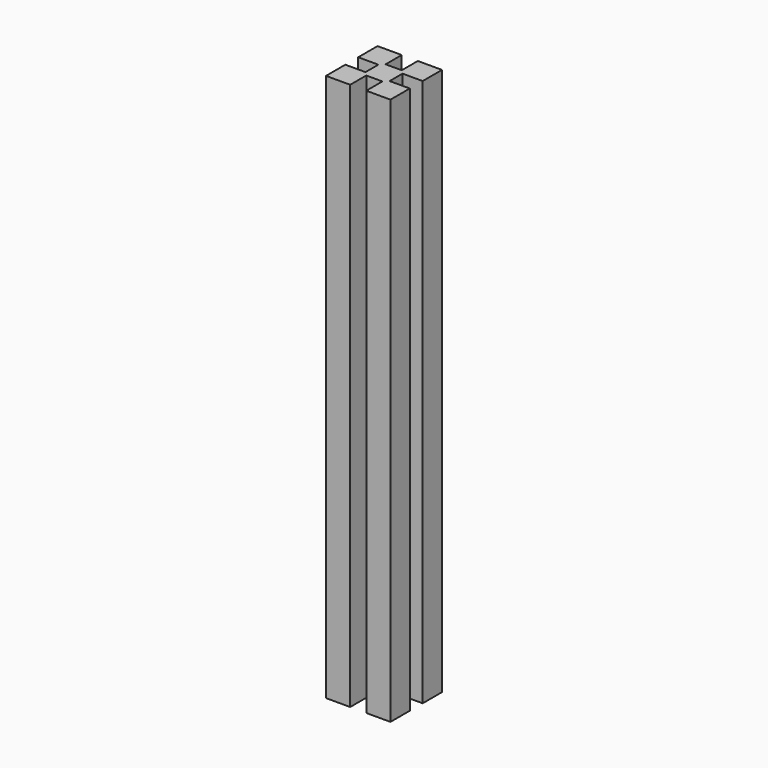
from build123d import *

# Parameters (mm, degrees)
PAD_DEPTH = 340


with BuildPart() as part:
    # Sketch → Pad (new body)
    with BuildSketch(Plane.XY):
        Polygon((-20, -20), (-20, -5), (-7.5, -5), (-7.5, 5), (-20, 5), (-20, 20), (-5, 20), (-5, 7.5), (5, 7.5), (5, 20), (20, 20), (20, 5), (7.5, 5), (7.5, -5), (20, -5), (20, -20), (5, -20), (5, -7.5), (-5, -7.5), (-5, -20), align=None)
    extrude(amount=PAD_DEPTH)


solid = part.part
